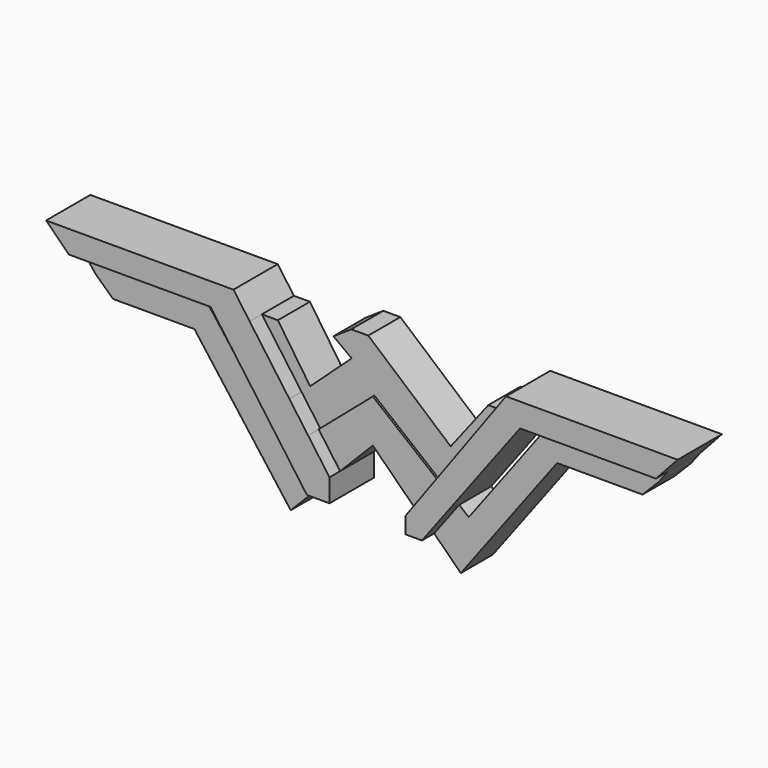
from build123d import *

# Parameters (mm, degrees)
F1_DEPTH = 5.08
F2_DEPTH = 7.0104
F3_DEPTH = 5.334


with BuildPart() as f1:
    # F0 (on Front) → F1 (new body)
    with BuildSketch(Plane.XZ):
        Polygon((-40.062314, 7.287229), (-37.179609, 4.422599), (-21.960379, 4.422599), (-19.214497, 4.422599), (-9.926813, -8.524094), (-7.009587, -12.590599), (-4.146443, -12.590599), (-4.146443, -9.682406), (-6.864069, -5.894135), (-9.225641, -2.60219), (-14.265077, 4.422599), (-16.320102, 7.287229), align=None)
        Polygon((8.418841, -6.8194), (5.47293, -10.858879), (5.47293, -12.923377), (7.56991, -12.923377), (10.741626, -8.700894), (19.999054, 3.623457), (21.996683, 3.623457), (37.222218, 3.623457), (39.969709, 6.618017), (18.218485, 6.618017), (16.034611, 3.623457), (10.868541, -3.460336), align=None)
        Polygon((-35.363599, 2.096692), (-33.117508, 0), (-22.81333, 0), (-10.609382, -16.247032), (-7.009587, -12.590599), (-9.926813, -8.524094), (-11.275736, -9.682406), (-20.123599, 2.096692), align=None)
        Polygon((-37.179609, 4.422599), (-35.363599, 2.096692), (-20.123599, 2.096692), (-21.960379, 4.422599), align=None)
        Polygon((-12.233077, 4.422599), (-14.265077, 4.422599), (-9.225641, -2.60219), (-8.147482, -1.614384), align=None)
        Polygon((-9.225641, -2.60219), (-6.864069, -5.894135), (0, 0), (8.418841, -6.8194), (10.868541, -3.460336), (9.668322, -2.531922), (-0.779053, 6.436089), (-2.935238, 6.436089), (-5.197461, 4.922159), (-2.880355, 3.211346), (-8.147482, -1.614384), align=None)
        Polygon((-6.864069, -5.894135), (-4.146443, -9.682406), (0, -5.470725), (5.47293, -10.858879), (8.418841, -6.8194), (0, 0), align=None)
        Polygon((10.741626, -8.700894), (7.56991, -12.923377), (10.945859, -16.247032), (23.149807, 0), (33.976993, 0), (36.041207, 2.096692), (20.801207, 2.096692), (11.953345, -9.682406), align=None)
        Polygon((21.996683, 3.623457), (20.801207, 2.096692), (36.041207, 2.096692), (37.222218, 3.623457), align=None)
        Polygon((9.668322, -2.531922), (10.868541, -3.460336), (16.034611, 3.623457), (14.429741, 3.623457), align=None)
    extrude(amount=F1_DEPTH)

    # F0 (on Front) → F2 (join)
    with BuildSketch(Plane.XZ):
        Polygon((8.418841, -6.8194), (5.47293, -10.858879), (5.47293, -12.923377), (7.56991, -12.923377), (10.741626, -8.700894), (19.999054, 3.623457), (21.996683, 3.623457), (37.222218, 3.623457), (39.969709, 6.618017), (18.218485, 6.618017), (16.034611, 3.623457), (10.868541, -3.460336), align=None)
        Polygon((-40.062314, 7.287229), (-37.179609, 4.422599), (-21.960379, 4.422599), (-19.214497, 4.422599), (-9.926813, -8.524094), (-7.009587, -12.590599), (-4.146443, -12.590599), (-4.146443, -9.682406), (-6.864069, -5.894135), (-9.225641, -2.60219), (-14.265077, 4.422599), (-16.320102, 7.287229), align=None)
    extrude(amount=F2_DEPTH)

    # F0 (on Front) → F3 (join)
    with BuildSketch(Plane.XZ):
        Polygon((-6.864069, -5.894135), (-4.146443, -9.682406), (0, -5.470725), (5.47293, -10.858879), (8.418841, -6.8194), (0, 0), align=None)
    extrude(amount=F3_DEPTH)


solid = f1.part
